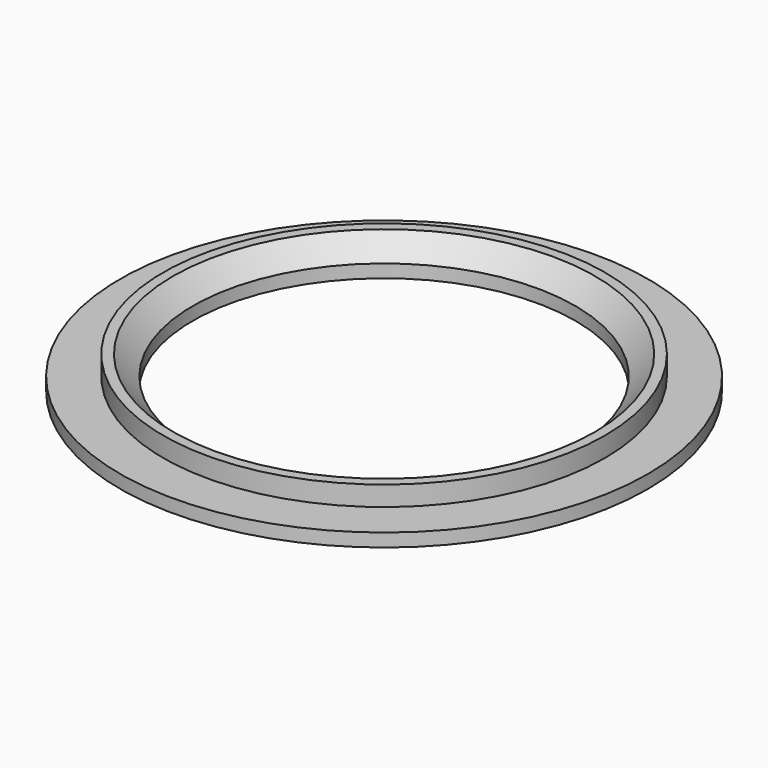
from build123d import *

# Parameters (mm, degrees)
F0_R     = 40
F0_R_2   = 29
F1_DEPTH = 2


with BuildPart() as f1:
    # F0 (on Top) → F1 (new body)
    with BuildSketch(Plane.XY):
        Circle(F0_R)
        Circle(F0_R_2, mode=Mode.SUBTRACT)
    extrude(amount=F1_DEPTH)

    # F2 (on Front) → F3 (revolve)
    with BuildSketch(Plane.XZ):
        Polygon((31.969388, 5), (28.969388, 2), (31.969388, 2), (33.469388, 2), (33.469388, 5), align=None)
    revolve(axis=Axis((0, 0, 4.160745), (0, 0, 1)))


solid = f1.part
